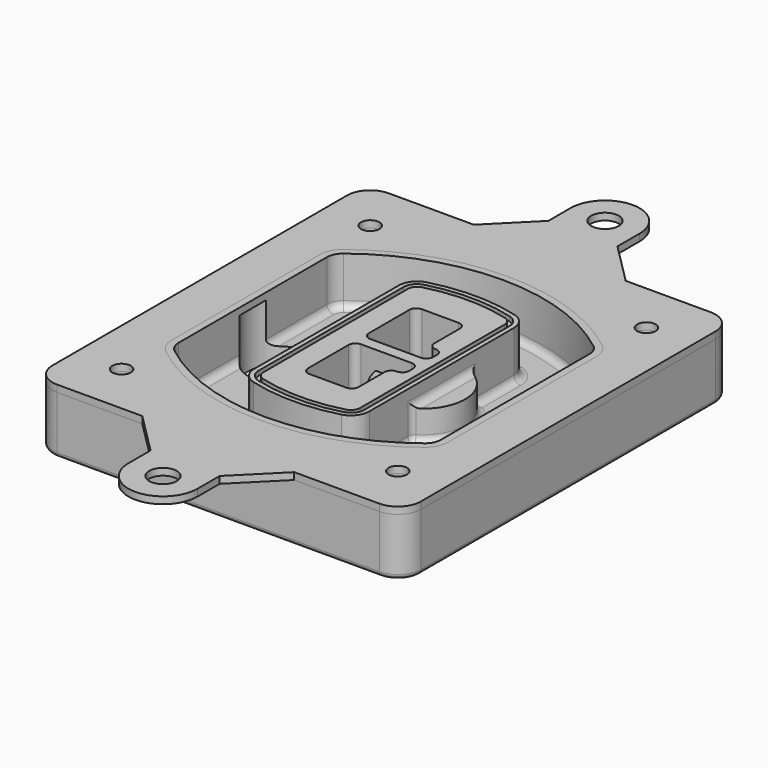
from build123d import *

# Parameters (mm, degrees)
F0_R      = 4
F1_DEPTH  = 25
F2_DEPTH  = 3
F3_DEPTH  = 18
F5_DEPTH  = 21
F6_DEPTH  = 2
F8_DEPTH  = 20
F9_DEPTH  = 16
F10_DEPTH = 25
F7_R      = 6
F7_R_2    = 4
F11_DEPTH = 6
F13_DEPTH = 9
F14_R     = 3
F15_R     = 2
F16_R     = 6
F16_R_2   = 4
F17_DEPTH = 3


with BuildPart() as f1:
    # F0 (on Top) → F1 (new body)
    with BuildSketch(Plane.XY):
        with BuildLine():
            ThreePointArc((-80, -80), (-77.0710678119, -87.0710678119), (-70, -90))
            Line((-70, -90), (70, -90))
            ThreePointArc((70, -90), (77.0710678119, -87.0710678119), (80, -80))
            Line((80, -80), (80, 80))
            ThreePointArc((80, 80), (77.0710678119, 87.0710678119), (70, 90))
            Line((70, 90), (-70, 90))
            ThreePointArc((-70, 90), (-77.0710678119, 87.0710678119), (-80, 80))
            Line((-80, 80), (-80, -80))
        make_face()
        with Locations((-60, -67.5)):
            Circle(F0_R, mode=Mode.SUBTRACT)
        with Locations((60, -67.5)):
            Circle(F0_R, mode=Mode.SUBTRACT)
        with Locations((-60, 67.5)):
            Circle(F0_R, mode=Mode.SUBTRACT)
        with BuildLine():
            ThreePointArc((-64, 40.2934422872), (-62.5820384798, 46.4328484224), (-58.6153846154, 51.3286200352))
            ThreePointArc((-58.6153846154, 51.3286200352), (0, 71.5), (58.6153846154, 51.3286200352))
            ThreePointArc((58.6153846154, 51.3286200352), (62.5820384798, 46.4328484224), (64, 40.2934422872))
            Line((64, 40.2934422872), (64, -40.2934422872))
            ThreePointArc((64, -40.2934422872), (62.5820384798, -46.4328484224), (58.6153846154, -51.3286200352))
            ThreePointArc((58.6153846154, -51.3286200352), (0, -71.5), (-58.6153846154, -51.3286200352))
            ThreePointArc((-58.6153846154, -51.3286200352), (-62.5820384798, -46.4328484224), (-64, -40.2934422872))
            Line((-64, -40.2934422872), (-64, 40.2934422872))
        make_face(mode=Mode.SUBTRACT)
        with Locations((60, 67.5)):
            Circle(F0_R, mode=Mode.SUBTRACT)
        with BuildLine():
            ThreePointArc((58.6153846154, 51.3286200352), (0, 71.5), (-58.6153846154, 51.3286200352))
            ThreePointArc((-58.6153846154, 51.3286200352), (-62.5820384798, 46.4328484224), (-64, 40.2934422872))
            Line((-64, 40.2934422872), (-64, -40.2934422872))
            ThreePointArc((-64, -40.2934422872), (-62.5820384798, -46.4328484224), (-58.6153846154, -51.3286200352))
            ThreePointArc((-58.6153846154, -51.3286200352), (0, -71.5), (58.6153846154, -51.3286200352))
            ThreePointArc((58.6153846154, -51.3286200352), (62.5820384798, -46.4328484224), (64, -40.2934422872))
            Line((64, -40.2934422872), (64, 40.2934422872))
            ThreePointArc((64, 40.2934422872), (62.5820384798, 46.4328484224), (58.6153846154, 51.3286200352))
        make_face()
        with BuildLine():
            Line((-60, -40.2934422872), (-60, 40.2934422872))
            ThreePointArc((-60, 40.2934422872), (-58.9871703427, 44.6787323838), (-56.1538461538, 48.1757121072))
            ThreePointArc((-56.1538461538, 48.1757121072), (0, 67.5), (56.1538461538, 48.1757121072))
            ThreePointArc((56.1538461538, 48.1757121072), (58.9871703427, 44.6787323838), (60, 40.2934422872))
            Line((60, 40.2934422872), (60, -40.2934422872))
            ThreePointArc((60, -40.2934422872), (58.9871703427, -44.6787323838), (56.1538461538, -48.1757121072))
            ThreePointArc((56.1538461538, -48.1757121072), (0, -67.5), (-56.1538461538, -48.1757121072))
            ThreePointArc((-56.1538461538, -48.1757121072), (-58.9871703427, -44.6787323838), (-60, -40.2934422872))
        make_face(mode=Mode.SUBTRACT)
        with BuildLine():
            ThreePointArc((-56.1538461538, 48.1757121072), (-58.9871703427, 44.6787323838), (-60, 40.2934422872))
            Line((-60, 40.2934422872), (-60, -40.2934422872))
            ThreePointArc((-60, -40.2934422872), (-58.9871703427, -44.6787323838), (-56.1538461538, -48.1757121072))
            ThreePointArc((-56.1538461538, -48.1757121072), (0, -67.5), (56.1538461538, -48.1757121072))
            ThreePointArc((56.1538461538, -48.1757121072), (58.9871703427, -44.6787323838), (60, -40.2934422872))
            Line((60, -40.2934422872), (60, 40.2934422872))
            ThreePointArc((60, 40.2934422872), (58.9871703427, 44.6787323838), (56.1538461538, 48.1757121072))
            ThreePointArc((56.1538461538, 48.1757121072), (0, 67.5), (-56.1538461538, 48.1757121072))
        make_face()
        with BuildLine():
            ThreePointArc((54.3076923077, 45.8110311612), (56.2910192399, 43.3631453548), (57, 40.2934422872))
            Line((57, 40.2934422872), (57, -40.2934422872))
            ThreePointArc((57, -40.2934422872), (56.2910192399, -43.3631453548), (54.3076923077, -45.8110311612))
            ThreePointArc((54.3076923077, -45.8110311612), (0, -64.5), (-54.3076923077, -45.8110311612))
            ThreePointArc((-54.3076923077, -45.8110311612), (-56.2910192399, -43.3631453548), (-57, -40.2934422872))
            Line((-57, -40.2934422872), (-57, 40.2934422872))
            ThreePointArc((-57, 40.2934422872), (-56.2910192399, 43.3631453548), (-54.3076923077, 45.8110311612))
            ThreePointArc((-54.3076923077, 45.8110311612), (0, 64.5), (54.3076923077, 45.8110311612))
        make_face(mode=Mode.SUBTRACT)
        with BuildLine():
            Line((57, -40.2934422872), (57, 40.2934422872))
            ThreePointArc((57, 40.2934422872), (56.2910192399, 43.3631453548), (54.3076923077, 45.8110311612))
            ThreePointArc((54.3076923077, 45.8110311612), (0, 64.5), (-54.3076923077, 45.8110311612))
            ThreePointArc((-54.3076923077, 45.8110311612), (-56.2910192399, 43.3631453548), (-57, 40.2934422872))
            Line((-57, 40.2934422872), (-57, -40.2934422872))
            ThreePointArc((-57, -40.2934422872), (-56.2910192399, -43.3631453548), (-54.3076923077, -45.8110311612))
            ThreePointArc((-54.3076923077, -45.8110311612), (0, -64.5), (54.3076923077, -45.8110311612))
            ThreePointArc((54.3076923077, -45.8110311612), (56.2910192399, -43.3631453548), (57, -40.2934422872))
        make_face()
    extrude(amount=-F1_DEPTH)

    # F0 (on Top) → F2 (join)
    with BuildSketch(Plane.XY):
        with BuildLine():
            ThreePointArc((-56.1538461538, 48.1757121072), (-58.9871703427, 44.6787323838), (-60, 40.2934422872))
            Line((-60, 40.2934422872), (-60, -40.2934422872))
            ThreePointArc((-60, -40.2934422872), (-58.9871703427, -44.6787323838), (-56.1538461538, -48.1757121072))
            ThreePointArc((-56.1538461538, -48.1757121072), (0, -67.5), (56.1538461538, -48.1757121072))
            ThreePointArc((56.1538461538, -48.1757121072), (58.9871703427, -44.6787323838), (60, -40.2934422872))
            Line((60, -40.2934422872), (60, 40.2934422872))
            ThreePointArc((60, 40.2934422872), (58.9871703427, 44.6787323838), (56.1538461538, 48.1757121072))
            ThreePointArc((56.1538461538, 48.1757121072), (0, 67.5), (-56.1538461538, 48.1757121072))
        make_face()
        with BuildLine():
            ThreePointArc((54.3076923077, 45.8110311612), (56.2910192399, 43.3631453548), (57, 40.2934422872))
            Line((57, 40.2934422872), (57, -40.2934422872))
            ThreePointArc((57, -40.2934422872), (56.2910192399, -43.3631453548), (54.3076923077, -45.8110311612))
            ThreePointArc((54.3076923077, -45.8110311612), (0, -64.5), (-54.3076923077, -45.8110311612))
            ThreePointArc((-54.3076923077, -45.8110311612), (-56.2910192399, -43.3631453548), (-57, -40.2934422872))
            Line((-57, -40.2934422872), (-57, 40.2934422872))
            ThreePointArc((-57, 40.2934422872), (-56.2910192399, 43.3631453548), (-54.3076923077, 45.8110311612))
            ThreePointArc((-54.3076923077, 45.8110311612), (0, 64.5), (54.3076923077, 45.8110311612))
        make_face(mode=Mode.SUBTRACT)
    extrude(amount=F2_DEPTH)

    # F0 (on Top) → F3 (cut)
    with BuildSketch(Plane.XY):
        with BuildLine():
            Line((57, -40.2934422872), (57, 40.2934422872))
            ThreePointArc((57, 40.2934422872), (56.2910192399, 43.3631453548), (54.3076923077, 45.8110311612))
            ThreePointArc((54.3076923077, 45.8110311612), (0, 64.5), (-54.3076923077, 45.8110311612))
            ThreePointArc((-54.3076923077, 45.8110311612), (-56.2910192399, 43.3631453548), (-57, 40.2934422872))
            Line((-57, 40.2934422872), (-57, -40.2934422872))
            ThreePointArc((-57, -40.2934422872), (-56.2910192399, -43.3631453548), (-54.3076923077, -45.8110311612))
            ThreePointArc((-54.3076923077, -45.8110311612), (0, -64.5), (54.3076923077, -45.8110311612))
            ThreePointArc((54.3076923077, -45.8110311612), (56.2910192399, -43.3631453548), (57, -40.2934422872))
        make_face()
    extrude(amount=-F3_DEPTH, mode=Mode.SUBTRACT)

    # F4 (on face) → F5 (join, through all)
    with BuildSketch(Plane.XY.offset(3)):
        with BuildLine():
            ThreePointArc((-25, -39.2465276821), (-23.3511545998, -44.1109737193), (-19.0842911877, -46.9702398883))
            ThreePointArc((-19.0842911877, -46.9702398883), (0, -49.5), (19.0842911877, -46.9702398883))
            ThreePointArc((19.0842911877, -46.9702398883), (23.3511545998, -44.1109737193), (25, -39.2465276821))
            Line((25, -39.2465276821), (25, 39.2465276821))
            ThreePointArc((25, 39.2465276821), (23.3511545998, 44.1109737193), (19.0842911877, 46.9702398883))
            ThreePointArc((19.0842911877, 46.9702398883), (0, 49.5), (-19.0842911877, 46.9702398883))
            ThreePointArc((-19.0842911877, 46.9702398883), (-23.3511545998, 44.1109737193), (-25, 39.2465276821))
            Line((-25, 39.2465276821), (-25, -39.2465276821))
        make_face()
        with BuildLine():
            ThreePointArc((18.5632183908, 45.0393118368), (21.7633659499, 42.89486221), (23, 39.2465276821))
            Line((23, 39.2465276821), (23, -39.2465276821))
            ThreePointArc((23, -39.2465276821), (21.7633659499, -42.89486221), (18.5632183908, -45.0393118368))
            ThreePointArc((18.5632183908, -45.0393118368), (0, -47.5), (-18.5632183908, -45.0393118368))
            ThreePointArc((-18.5632183908, -45.0393118368), (-21.7633659499, -42.89486221), (-23, -39.2465276821))
            Line((-23, -39.2465276821), (-23, 39.2465276821))
            ThreePointArc((-23, 39.2465276821), (-21.7633659499, 42.89486221), (-18.5632183908, 45.0393118368))
            ThreePointArc((-18.5632183908, 45.0393118368), (0, 47.5), (18.5632183908, 45.0393118368))
        make_face(mode=Mode.SUBTRACT)
        with BuildLine():
            Line((23, -39.2465276821), (23, 39.2465276821))
            ThreePointArc((23, 39.2465276821), (21.7633659499, 42.89486221), (18.5632183908, 45.0393118368))
            ThreePointArc((18.5632183908, 45.0393118368), (0, 47.5), (-18.5632183908, 45.0393118368))
            ThreePointArc((-18.5632183908, 45.0393118368), (-21.7633659499, 42.89486221), (-23, 39.2465276821))
            Line((-23, 39.2465276821), (-23, -39.2465276821))
            ThreePointArc((-23, -39.2465276821), (-21.7633659499, -42.89486221), (-18.5632183908, -45.0393118368))
            ThreePointArc((-18.5632183908, -45.0393118368), (0, -47.5), (18.5632183908, -45.0393118368))
            ThreePointArc((18.5632183908, -45.0393118368), (21.7633659499, -42.89486221), (23, -39.2465276821))
        make_face()
        with BuildLine():
            ThreePointArc((18.0421455939, 43.1083837852), (20.1755772999, 41.6787507007), (21, 39.2465276821))
            Line((21, 39.2465276821), (21, -39.2465276821))
            ThreePointArc((21, -39.2465276821), (20.1755772999, -41.6787507007), (18.0421455939, -43.1083837852))
            ThreePointArc((18.0421455939, -43.1083837852), (0, -45.5), (-18.0421455939, -43.1083837852))
            ThreePointArc((-18.0421455939, -43.1083837852), (-20.1755772999, -41.6787507007), (-21, -39.2465276821))
            Line((-21, -39.2465276821), (-21, 39.2465276821))
            ThreePointArc((-21, 39.2465276821), (-20.1755772999, 41.6787507007), (-18.0421455939, 43.1083837852))
            ThreePointArc((-18.0421455939, 43.1083837852), (0, 45.5), (18.0421455939, 43.1083837852))
        make_face(mode=Mode.SUBTRACT)
        with BuildLine():
            Line((21, -39.2465276821), (21, 39.2465276821))
            ThreePointArc((21, 39.2465276821), (20.1755772999, 41.6787507007), (18.0421455939, 43.1083837852))
            ThreePointArc((18.0421455939, 43.1083837852), (0, 45.5), (-18.0421455939, 43.1083837852))
            ThreePointArc((-18.0421455939, 43.1083837852), (-20.1755772999, 41.6787507007), (-21, 39.2465276821))
            Line((-21, 39.2465276821), (-21, -39.2465276821))
            ThreePointArc((-21, -39.2465276821), (-20.1755772999, -41.6787507007), (-18.0421455939, -43.1083837852))
            ThreePointArc((-18.0421455939, -43.1083837852), (0, -45.5), (18.0421455939, -43.1083837852))
            ThreePointArc((18.0421455939, -43.1083837852), (20.1755772999, -41.6787507007), (21, -39.2465276821))
        make_face()
        with BuildLine():
            Line((-8, -2.5), (14, -2.5))
            ThreePointArc((14, -2.5), (16.1213203436, -3.3786796564), (17, -5.5))
            Line((17, -5.5), (17, -7.5))
            ThreePointArc((17, -7.5), (16.1213203436, -9.6213203436), (14, -10.5))
            ThreePointArc((14, -10.5), (11.8786796564, -11.3786796564), (11, -13.5))
            Line((11, -13.5), (11, -27.5))
            ThreePointArc((11, -27.5), (10.1213203436, -29.6213203436), (8, -30.5))
            Line((8, -30.5), (-8, -30.5))
            ThreePointArc((-8, -30.5), (-10.1213203436, -29.6213203436), (-11, -27.5))
            Line((-11, -27.5), (-11, -5.5))
            ThreePointArc((-11, -5.5), (-10.1213203436, -3.3786796564), (-8, -2.5))
        make_face(mode=Mode.SUBTRACT)
        with BuildLine():
            ThreePointArc((-8, 2.5), (-10.1213203436, 3.3786796564), (-11, 5.5))
            Line((-11, 5.5), (-11, 27.5))
            ThreePointArc((-11, 27.5), (-10.1213203436, 29.6213203436), (-8, 30.5))
            Line((-8, 30.5), (8, 30.5))
            ThreePointArc((8, 30.5), (10.1213203436, 29.6213203436), (11, 27.5))
            Line((11, 27.5), (11, 13.5))
            ThreePointArc((11, 13.5), (11.8786796564, 11.3786796564), (14, 10.5))
            ThreePointArc((14, 10.5), (16.1213203436, 9.6213203436), (17, 7.5))
            Line((17, 7.5), (17, 5.5))
            ThreePointArc((17, 5.5), (16.1213203436, 3.3786796564), (14, 2.5))
            Line((14, 2.5), (-8, 2.5))
        make_face(mode=Mode.SUBTRACT)
    extrude(amount=-F5_DEPTH)

    # F4 (on face) → F6 (cut)
    with BuildSketch(Plane.XY.offset(3)):
        with BuildLine():
            Line((23, -39.2465276821), (23, 39.2465276821))
            ThreePointArc((23, 39.2465276821), (21.7633659499, 42.89486221), (18.5632183908, 45.0393118368))
            ThreePointArc((18.5632183908, 45.0393118368), (0, 47.5), (-18.5632183908, 45.0393118368))
            ThreePointArc((-18.5632183908, 45.0393118368), (-21.7633659499, 42.89486221), (-23, 39.2465276821))
            Line((-23, 39.2465276821), (-23, -39.2465276821))
            ThreePointArc((-23, -39.2465276821), (-21.7633659499, -42.89486221), (-18.5632183908, -45.0393118368))
            ThreePointArc((-18.5632183908, -45.0393118368), (0, -47.5), (18.5632183908, -45.0393118368))
            ThreePointArc((18.5632183908, -45.0393118368), (21.7633659499, -42.89486221), (23, -39.2465276821))
        make_face()
        with BuildLine():
            ThreePointArc((18.0421455939, 43.1083837852), (20.1755772999, 41.6787507007), (21, 39.2465276821))
            Line((21, 39.2465276821), (21, -39.2465276821))
            ThreePointArc((21, -39.2465276821), (20.1755772999, -41.6787507007), (18.0421455939, -43.1083837852))
            ThreePointArc((18.0421455939, -43.1083837852), (0, -45.5), (-18.0421455939, -43.1083837852))
            ThreePointArc((-18.0421455939, -43.1083837852), (-20.1755772999, -41.6787507007), (-21, -39.2465276821))
            Line((-21, -39.2465276821), (-21, 39.2465276821))
            ThreePointArc((-21, 39.2465276821), (-20.1755772999, 41.6787507007), (-18.0421455939, 43.1083837852))
            ThreePointArc((-18.0421455939, 43.1083837852), (0, 45.5), (18.0421455939, 43.1083837852))
        make_face(mode=Mode.SUBTRACT)
    extrude(amount=-F6_DEPTH, mode=Mode.SUBTRACT)

    # F7 (on face) → F8 (join)
    with BuildSketch(Plane(origin=(0, 0, -25), x_dir=(1, 0, 0), z_dir=(0, 0, -1))):
        with BuildLine():
            ThreePointArc((3.28842436, 0), (16.7567035675, 13.4682792075), (30.224982775, 0))
            Line((30.224982775, 0), (35.224982775, 0))
            ThreePointArc((35.224982775, 0), (16.7567035675, 18.4682792075), (-1.71157564, 0))
            Line((-1.71157564, 0), (3.28842436, 0))
        make_face()
        with BuildLine():
            Line((3.28842436, 0), (30.224982775, 0))
            ThreePointArc((30.224982775, 0), (16.7567035675, 13.4682792075), (3.28842436, 0))
        make_face()
        with BuildLine():
            ThreePointArc((3.28842436, 0), (16.7567035675, -13.4682792075), (30.224982775, 0))
            Line((30.224982775, 0), (3.28842436, 0))
        make_face()
        with BuildLine():
            Line((35.224982775, 0), (30.224982775, 0))
            ThreePointArc((30.224982775, 0), (16.7567035675, -13.4682792075), (3.28842436, 0))
            Line((3.28842436, 0), (-1.71157564, 0))
            ThreePointArc((-1.71157564, 0), (16.7567035675, -18.4682792075), (35.224982775, 0))
        make_face()
    extrude(amount=-F8_DEPTH)

    # F7 (on face) → F9 (cut)
    with BuildSketch(Plane(origin=(0, 0, -25), x_dir=(1, 0, 0), z_dir=(0, 0, -1))):
        with BuildLine():
            Line((3.28842436, 0), (30.224982775, 0))
            ThreePointArc((30.224982775, 0), (16.7567035675, 13.4682792075), (3.28842436, 0))
        make_face()
        with BuildLine():
            ThreePointArc((3.28842436, 0), (16.7567035675, -13.4682792075), (30.224982775, 0))
            Line((30.224982775, 0), (3.28842436, 0))
        make_face()
    extrude(amount=-F9_DEPTH, mode=Mode.SUBTRACT)

    # F7 (on face) → F10 (cut)
    with BuildSketch(Plane(origin=(0, 0, -25), x_dir=(1, 0, 0), z_dir=(0, 0, -1))):
        with BuildLine():
            Line((-59.0318229325, 0), (-32.0952645175, 0))
            ThreePointArc((-32.0952645175, 0), (-45.563543725, 13.4682792075), (-59.0318229325, 0))
        make_face()
        with BuildLine():
            ThreePointArc((-59.0318229325, 0), (-45.563543725, -13.4682792075), (-32.0952645175, 0))
            Line((-32.0952645175, 0), (-59.0318229325, 0))
        make_face()
    extrude(amount=-F10_DEPTH, mode=Mode.SUBTRACT)

    # F7 (on face) → F11 (cut)
    with BuildSketch(Plane(origin=(0, 0, -25), x_dir=(1, 0, 0), z_dir=(0, 0, -1))):
        with Locations((60, -67.5)):
            Circle(F7_R)
        with Locations((60, -67.5)):
            Circle(F7_R_2, mode=Mode.SUBTRACT)
        with Locations((60, -67.5)):
            Circle(F7_R)
        with Locations((60, -67.5)):
            Circle(F7_R_2, mode=Mode.SUBTRACT)
        with Locations((-60, -67.5)):
            Circle(F7_R)
        with Locations((-60, -67.5)):
            Circle(F7_R_2, mode=Mode.SUBTRACT)
        with Locations((-60, -67.5)):
            Circle(F7_R)
        with Locations((-60, -67.5)):
            Circle(F7_R_2, mode=Mode.SUBTRACT)
        with Locations((-60, 67.5)):
            Circle(F7_R)
        with Locations((-60, 67.5)):
            Circle(F7_R_2, mode=Mode.SUBTRACT)
        with Locations((-60, 67.5)):
            Circle(F7_R)
        with Locations((-60, 67.5)):
            Circle(F7_R_2, mode=Mode.SUBTRACT)
        with Locations((60, 67.5)):
            Circle(F7_R)
        with Locations((60, 67.5)):
            Circle(F7_R_2, mode=Mode.SUBTRACT)
        with Locations((60, 67.5)):
            Circle(F7_R)
        with Locations((60, 67.5)):
            Circle(F7_R_2, mode=Mode.SUBTRACT)
    extrude(amount=-F11_DEPTH, mode=Mode.SUBTRACT)

    # F12 (on face) → F13 (cut, through all)
    with BuildSketch(Plane(origin=(0, 0, -9), x_dir=(1, 0, 0), z_dir=(0, 0, -1))):
        with BuildLine():
            Line((11, 13.5), (11, 17.5481537753))
            ThreePointArc((11, 17.5481537753), (2.5696536419, 11.8239143813), (-1.5415842455, 2.5))
            Line((-1.5415842455, 2.5), (3.5224848595, 2.5))
            ThreePointArc((3.5224848595, 2.5), (6.1857188154, 8.3455872281), (11.2536447004, 12.2927168648))
            ThreePointArc((11.2536447004, 12.2927168648), (11.0640958889, 12.8831798879), (11, 13.5))
        make_face()
        with BuildLine():
            ThreePointArc((11.2536447004, -12.2927168648), (6.1857188154, -8.3455872281), (3.5224848595, -2.5))
            Line((3.5224848595, -2.5), (-1.5415842455, -2.5))
            ThreePointArc((-1.5415842455, -2.5), (2.5696536419, -11.8239143813), (11, -17.5481537753))
            Line((11, -17.5481537753), (11, -13.5))
            ThreePointArc((11, -13.5), (11.0640958889, -12.8831798879), (11.2536447004, -12.2927168648))
        make_face()
        with BuildLine():
            ThreePointArc((11.2536447004, 12.2927168648), (6.1857188154, 8.3455872281), (3.5224848595, 2.5))
            Line((3.5224848595, 2.5), (14, 2.5))
            ThreePointArc((14, 2.5), (16.1213203436, 3.3786796564), (17, 5.5))
            Line((17, 5.5), (17, 7.5))
            ThreePointArc((17, 7.5), (16.1213203436, 9.6213203436), (14, 10.5))
            ThreePointArc((14, 10.5), (12.3601599782, 10.9878446101), (11.2536447004, 12.2927168648))
        make_face()
        with BuildLine():
            Line((14, -2.5), (3.5224848595, -2.5))
            ThreePointArc((3.5224848595, -2.5), (6.1857188154, -8.3455872281), (11.2536447004, -12.2927168648))
            ThreePointArc((11.2536447004, -12.2927168648), (12.3601599782, -10.9878446101), (14, -10.5))
            ThreePointArc((14, -10.5), (16.1213203436, -9.6213203436), (17, -7.5))
            Line((17, -7.5), (17, -5.5))
            ThreePointArc((17, -5.5), (16.1213203436, -3.3786796564), (14, -2.5))
        make_face()
    extrude(amount=F13_DEPTH, mode=Mode.SUBTRACT)

    # F14
    f14_edges = [f1.edges().sort_by_distance(p)[0] for p in [
        (-57, -23.703476, -18),
        (-57, 23.703476, -18),
        (25, 0, -5),
        (25, 16.526506, -11.5),
        (25, -16.526506, -11.5),
        (25, -27.886517, -18),
        (35.224983, 0, -18),
    ]]
    fillet(f14_edges, radius=F14_R)

    # F15
    f15_edges = [f1.edges().sort_by_distance(p)[0] for p in [
        (0, -90, -25),
    ]]
    fillet(f15_edges, radius=F15_R)


with BuildPart() as f17:
    # F16 (on face) → F17 (new body, through all)
    with BuildSketch(Plane.XY):
        with BuildLine():
            Line((-15, 108), (-33, 90))
            Line((-33, 90), (33, 90))
            Line((33, 90), (15, 108))
            Line((15, 108), (15, 120))
            ThreePointArc((15, 120), (0, 135), (-15, 120))
            Line((-15, 120), (-15, 108))
        make_face()
        with Locations((0, 120)):
            Circle(F16_R, mode=Mode.SUBTRACT)
        with BuildLine():
            Line((-33, 90), (-70, 90))
            ThreePointArc((-70, 90), (-77.0710678119, 87.0710678119), (-80, 80))
            Line((-80, 80), (-80, -80))
            ThreePointArc((-80, -80), (-77.0710678119, -87.0710678119), (-70, -90))
            Line((-70, -90), (-33, -90))
            Line((-33, -90), (33, -90))
            Line((33, -90), (70, -90))
            ThreePointArc((70, -90), (77.0710678119, -87.0710678119), (80, -80))
            Line((80, -80), (80, 80))
            ThreePointArc((80, 80), (77.0710678119, 87.0710678119), (70, 90))
            Line((70, 90), (33, 90))
            Line((33, 90), (-33, 90))
        make_face()
        with Locations((-60, -67.5)):
            Circle(F16_R_2, mode=Mode.SUBTRACT)
        with Locations((60, -67.5)):
            Circle(F16_R_2, mode=Mode.SUBTRACT)
        with Locations((-60, 67.5)):
            Circle(F16_R_2, mode=Mode.SUBTRACT)
        with BuildLine():
            ThreePointArc((-56.1538461538, 48.1757121072), (0, 67.5), (56.1538461538, 48.1757121072))
            ThreePointArc((56.1538461538, 48.1757121072), (58.9871703427, 44.6787323838), (60, 40.2934422872))
            Line((60, 40.2934422872), (60, -40.2934422872))
            ThreePointArc((60, -40.2934422872), (58.9871703427, -44.6787323838), (56.1538461538, -48.1757121072))
            ThreePointArc((56.1538461538, -48.1757121072), (0, -67.5), (-56.1538461538, -48.1757121072))
            ThreePointArc((-56.1538461538, -48.1757121072), (-58.9871703427, -44.6787323838), (-60, -40.2934422872))
            Line((-60, -40.2934422872), (-60, 40.2934422872))
            ThreePointArc((-60, 40.2934422872), (-58.9871703427, 44.6787323838), (-56.1538461538, 48.1757121072))
        make_face(mode=Mode.SUBTRACT)
        with Locations((60, 67.5)):
            Circle(F16_R_2, mode=Mode.SUBTRACT)
        with BuildLine():
            Line((33, -90), (-33, -90))
            Line((-33, -90), (-15, -108))
            Line((-15, -108), (-15, -120))
            ThreePointArc((-15, -120), (0, -135), (15, -120))
            Line((15, -120), (15, -108))
            Line((15, -108), (33, -90))
        make_face()
        with Locations((0, -120)):
            Circle(F16_R, mode=Mode.SUBTRACT)
    extrude(amount=F17_DEPTH)


solid = Compound([f1.part, f17.part])
